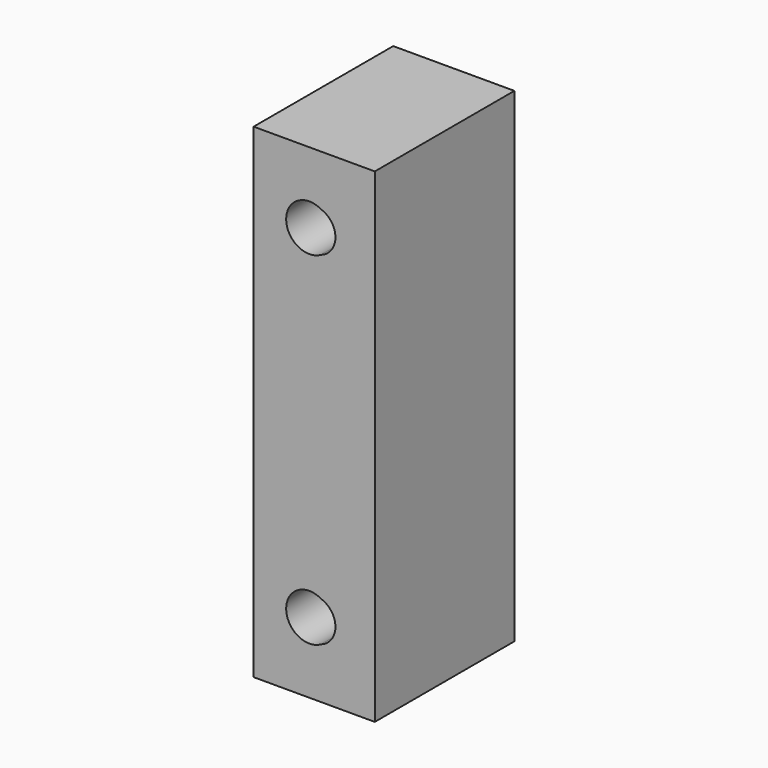
from build123d import *

# Parameters (mm, degrees)
F0_W     = 25.4
F0_H     = 101.6
F1_DEPTH = 36.576
F2_D     = 8.89
F3_D     = 9.7282


with BuildPart() as f1:
    # F0 (on Front) → F1 (new body)
    with BuildSketch(Plane.XZ):
        Rectangle(F0_W, F0_H)
    extrude(amount=-F1_DEPTH)

    # F2 (through all)
    with Locations(Plane.XZ):
        with Locations((0, 35.941), (0, -35.941)):
            Hole(F2_D / 2)

    # F3 (through all)
    with Locations(Plane.XZ):
        with Locations((-1.016, 35.941), (-1.016, -35.941)):
            Hole(F3_D / 2)


solid = f1.part
